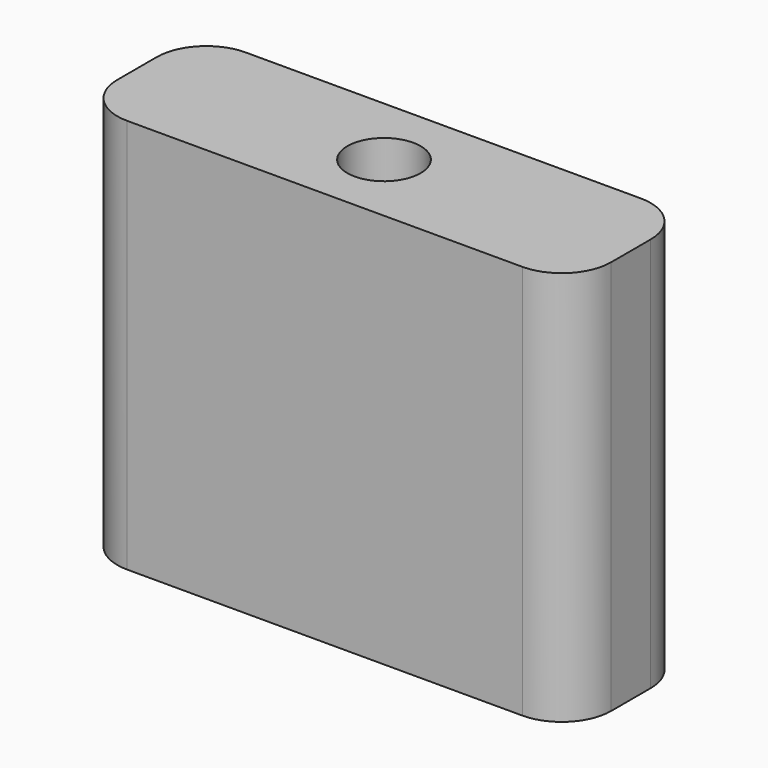
from build123d import *

# Parameters (mm, degrees)
F0_W     = 20
F0_H     = 6
F0_R     = 1.483649
F1_DEPTH = 16
F2_R     = 2


with BuildPart() as f1:
    # F0 (on Top) → F1 (new body)
    with BuildSketch(Plane.XY):
        with Locations((10, 3)):
            Rectangle(F0_W, F0_H)
        with Locations((10, 3)):
            Circle(F0_R, mode=Mode.SUBTRACT)
    extrude(amount=-F1_DEPTH)

    # F2
    f2_edges = [f1.edges().sort_by_distance(p)[0] for p in [
        (20, 6, -8),
        (0, 6, -8),
        (20, 0, -8),
        (0, 0, -8),
    ]]
    fillet(f2_edges, radius=F2_R)


solid = f1.part
